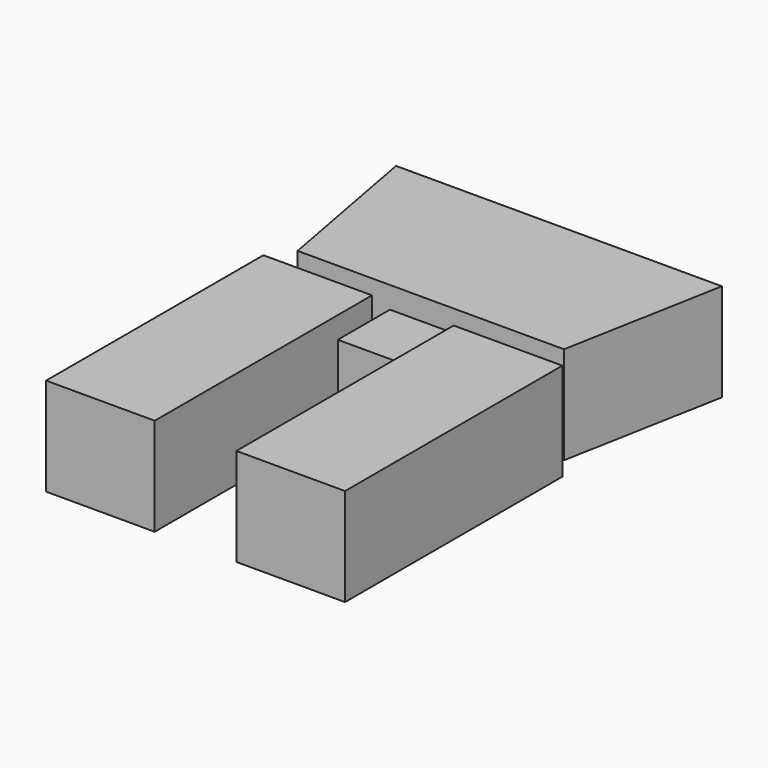
from build123d import *

# Parameters (mm, degrees)
F1_DEPTH = 45.72
F2_W     = 101.6
F2_H     = 35.6616
F3_DEPTH = 63.5
F4_W     = 38.2081334517
F4_H     = 25.4
F5_DEPTH = 30.48
F6_W     = 19.9782385411
F6_H     = 25.4
F7_DEPTH = 50.8


with BuildPart() as f1:
    # F0 (on Top) → F1 (new body)
    with BuildSketch(Plane.XY):
        Polygon((0, -119.299590295), (-50.8, -119.299590295), (-76.2, -119.299590295), (-62.2840667259, -194.2181247248), (62.2840667259, -194.2181247248), (76.2, -119.299590295), (50.8, -119.299590295), align=None)
    extrude(amount=F1_DEPTH)

    # F2 (on face) → F3 (cut)
    with BuildSketch(Plane(origin=(0, -119.299590295, 0), x_dir=(-1, 0, 0), z_dir=(0, 1, 0))):
        with Locations((0, 22.9217616037)):
            Rectangle(F2_W, F2_H)
    extrude(amount=-F3_DEPTH, mode=Mode.SUBTRACT)

    # F4 (on face) → F5 (join)
    with BuildSketch(Plane.XZ.offset(194.2181247248)):
        with Locations((1.7259e-06, 22.86)):
            Rectangle(F4_W, F4_H)
    extrude(amount=F5_DEPTH)

    # F6 (on face) → F7 (join)
    with BuildSketch(Plane(origin=(-19.104065, 0, 0), x_dir=(0, -1, 0), z_dir=(-1, 0, 0))):
        with Locations((214.7090054543, 22.86)):
            Rectangle(F6_W, F6_H)
        Polygon((204.7198861837, 10.16), (204.7198861837, 0), (331.7198861837, 0), (331.7198861837, 45.72), (204.7198861837, 45.72), (204.7198861837, 35.56), (224.6981247248, 35.56), (224.6981247248, 10.16), align=None)
    extrude(amount=F7_DEPTH)

    # F8: F1 across plane


with BuildPart() as f1_1:
    add(f1.part)
    add(f1.part.mirror(Plane.YZ))


solid = f1_1.part
